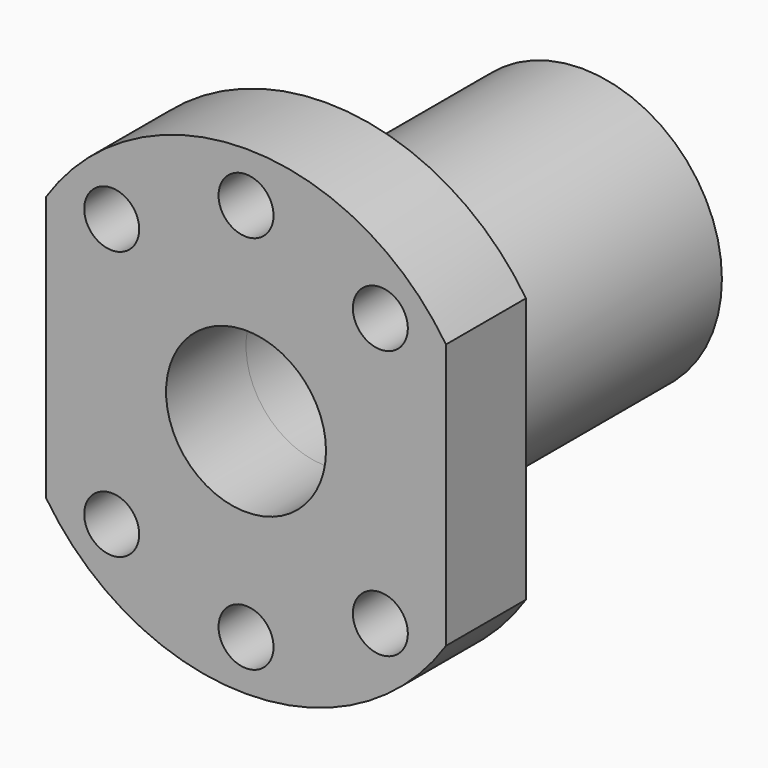
from build123d import *

# Parameters (mm, degrees)
SKETCH_R      = 8
SKETCH_R_2    = 2.75
PAD_DEPTH     = 10
SKETCH001_R   = 14
SKETCH001_R_2 = 8
PAD001_DEPTH  = 32


with BuildPart() as part:
    # Sketch → Pad (new body)
    with BuildSketch(Plane.XZ):
        with BuildLine():
            Line((-20, 13.266499), (-20, -13.266499))
            ThreePointArc((-20, -13.266499), (0, -24), (20, -13.266499))
            Line((20, 13.266499), (20, -13.266499))
            ThreePointArc((20, 13.266499), (0, 24), (-20, 13.266499))
        make_face()
        Circle(SKETCH_R, mode=Mode.SUBTRACT)
        with Locations((-13.435029, 13.435029)):
            Circle(SKETCH_R_2, mode=Mode.SUBTRACT)
        with Locations((0, 19)):
            Circle(SKETCH_R_2, mode=Mode.SUBTRACT)
        with Locations((13.435029, 13.435029)):
            Circle(SKETCH_R_2, mode=Mode.SUBTRACT)
        with Locations((-13.435029, -13.435029)):
            Circle(SKETCH_R_2, mode=Mode.SUBTRACT)
        with Locations((0, -19)):
            Circle(SKETCH_R_2, mode=Mode.SUBTRACT)
        with Locations((13.435029, -13.435029)):
            Circle(SKETCH_R_2, mode=Mode.SUBTRACT)
    extrude(amount=-PAD_DEPTH)

    # Sketch001 (on Face13 of Pad) → Pad001 (join)
    with BuildSketch(Plane(origin=(0, 10, 0), x_dir=(1, 0, 0), z_dir=(0, 1, 0))):
        Circle(SKETCH001_R)
        Circle(SKETCH001_R_2, mode=Mode.SUBTRACT)
    extrude(amount=PAD001_DEPTH)


solid = part.part
